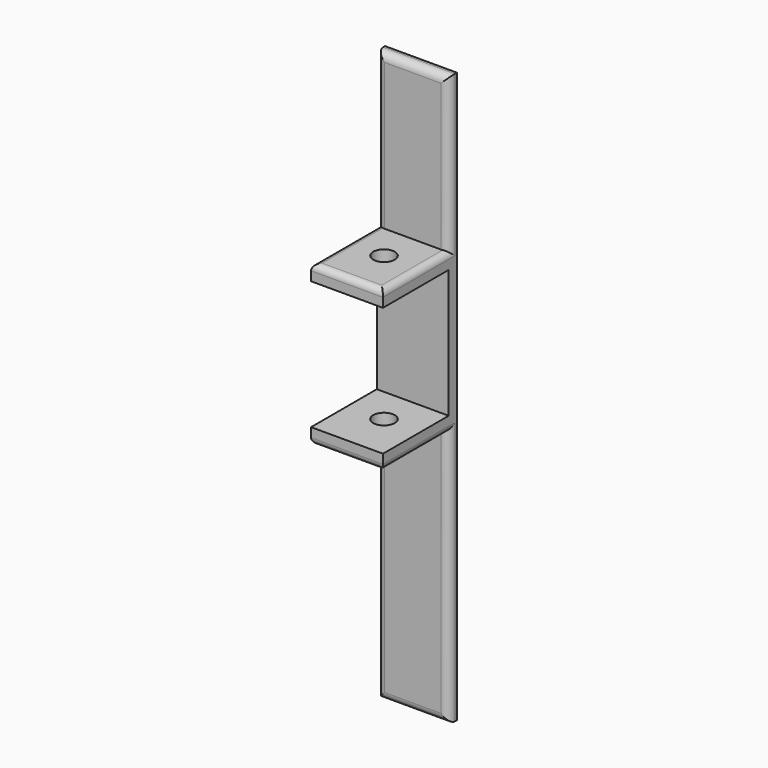
from build123d import *

# Parameters (mm, degrees)
SKETCH_W     = 14
SKETCH_H     = 111
PAD_DEPTH    = 2
SKETCH001_W  = 14
SKETCH001_H  = 3
PAD001_DEPTH = 16
SKETCH002_W  = 14
SKETCH002_H  = 3
PAD002_DEPTH = 16
SKETCH003_R  = 2.1
POCKET_DEPTH = 61.001
FILLET_R     = 1.5
FILLET001_R  = 1.2


with BuildPart() as part:
    # Sketch → Pad (new body)
    with BuildSketch(Plane.XZ):
        Rectangle(SKETCH_W, SKETCH_H)
    extrude(amount=PAD_DEPTH)

    # Sketch001 (on Face6 of Pad) → Pad001 (join)
    with BuildSketch(Plane.XZ.offset(2)):
        with Locations((0, 24)):
            Rectangle(SKETCH001_W, SKETCH001_H)
    extrude(amount=PAD001_DEPTH)

    # Sketch002 (on Face7 of Pad001) → Pad002 (join)
    with BuildSketch(Plane.XZ.offset(2)):
        with Locations((0, -4)):
            Rectangle(SKETCH002_W, SKETCH002_H)
    extrude(amount=PAD002_DEPTH)

    # Sketch003 (on Face14 of Pad002) → Pocket (cut, through all)
    with BuildSketch(Plane(origin=(0, 0, -5.5), x_dir=(1, 0, 0), z_dir=(0, 0, -1))):
        with Locations((0, 9)):
            Circle(SKETCH003_R)
    extrude(amount=-POCKET_DEPTH, mode=Mode.SUBTRACT)

    # Fillet
    fillet_edges = [part.edges().sort_by_distance(p)[0] for p in [
        (7, -2, 40.5),
        (-7, -2, 40.5),
        (0, -2, 55.5),
        (-7, -2, -30.5),
        (7, -2, -30.5),
        (0, -2, -55.5),
    ]]
    fillet(fillet_edges, radius=FILLET_R)

    # Fillet001
    fillet001_edges = [part.edges().sort_by_distance(p)[0] for p in [
        (-7, -10, 25.5),
        (0, -18, 25.5),
        (7, -10, 25.5),
        (0, -18, -5.5),
        (7, -10, -5.5),
        (-7, -10, -5.5),
    ]]
    fillet(fillet001_edges, radius=FILLET001_R)


solid = part.part
